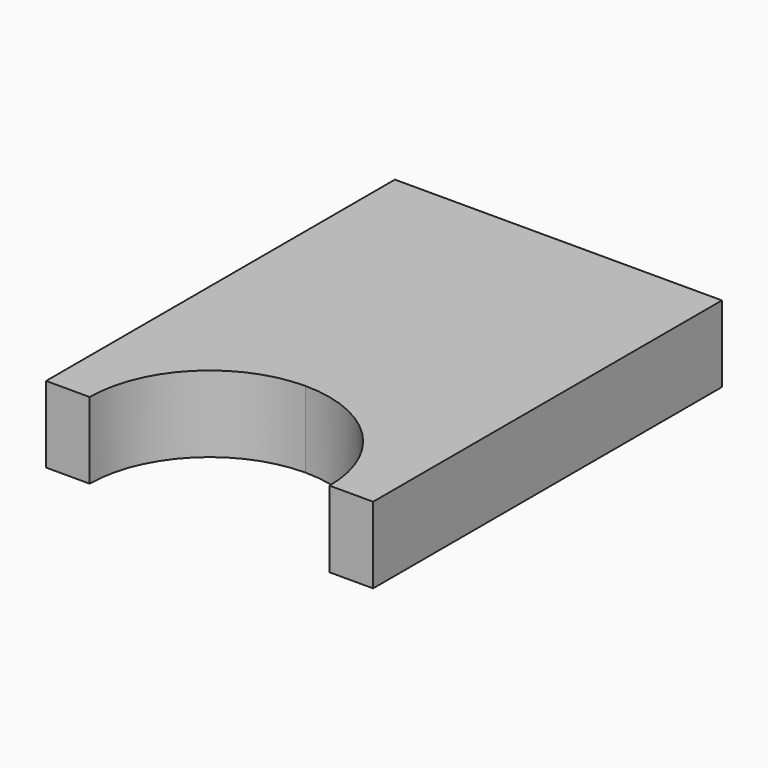
from build123d import *

# Parameters (mm, degrees)
F1_DEPTH = 7


with BuildPart() as f1:
    # F0 (on Top) → F1 (new body)
    with BuildSketch(Plane.XY):
        with BuildLine():
            ThreePointArc((-11, 0), (-7.778175, 7.778175), (0, 11))
            Line((0, 11), (0, 40))
            Line((0, 40), (-15, 40))
            Line((-15, 40), (-15, 0))
            Line((-15, 0), (-11, 0))
        make_face()
        with BuildLine():
            ThreePointArc((0, 11), (7.778175, 7.778175), (11, 0))
            Line((11, 0), (15, 0))
            Line((15, 0), (15, 40))
            Line((15, 40), (0, 40))
            Line((0, 40), (0, 11))
        make_face()
    extrude(amount=F1_DEPTH)


solid = f1.part
